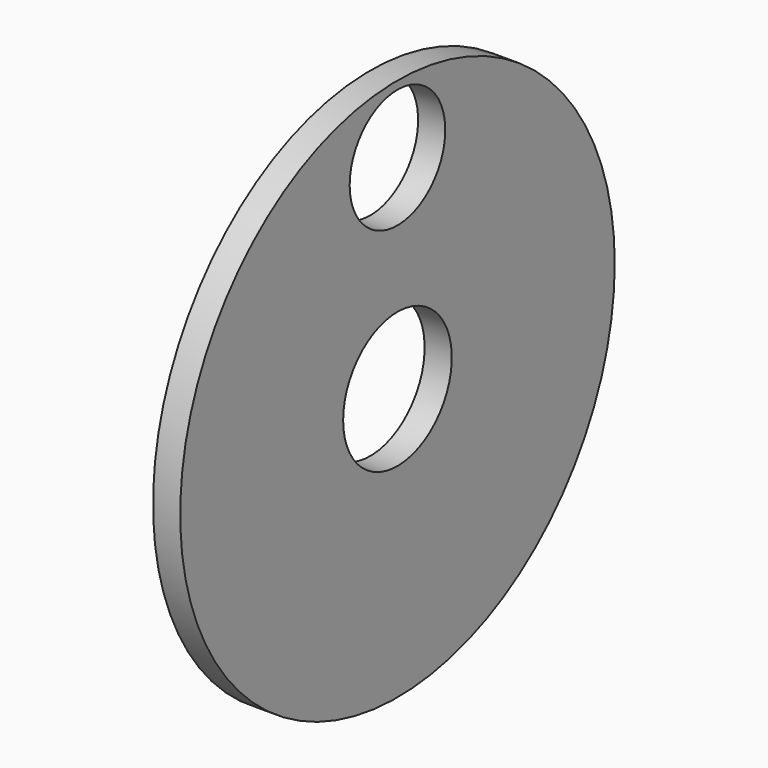
from build123d import *

# Parameters (mm, degrees)
F0_R     = 50
F1_DEPTH = 2.5
F3_D     = 25
F5_D     = 22


with BuildPart() as f1:
    # F0 (on Right) → F1 (new body, symmetric)
    with BuildSketch(Plane.YZ):
        Circle(F0_R)
    extrude(amount=F1_DEPTH, both=True)

    # F3 (through all)
    with Locations(Plane.YZ.offset(2.5)):
        with Locations((0, 0)):
            Hole(F3_D / 2)

    # F5 (through all)
    with Locations(Plane.YZ.offset(2.5)):
        with Locations((0, 37.5)):
            Hole(F5_D / 2)


solid = f1.part
